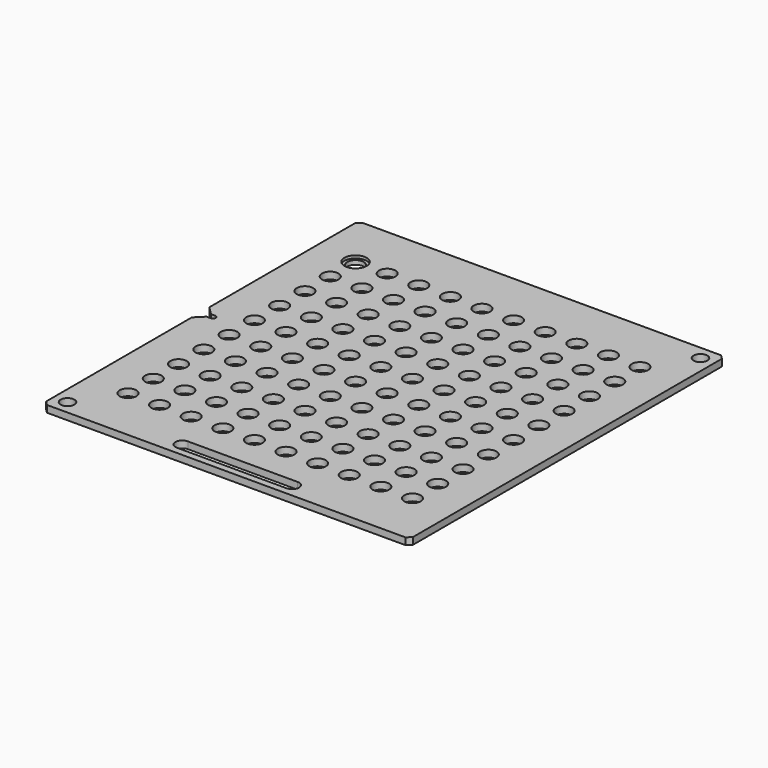
from build123d import *

# Parameters (mm, degrees)
F0_R     = 5
F0_R_2   = 6
F0_R_3   = 8.1
F1_DEPTH = 5
F2_DEPTH = 3


with BuildPart() as f1:
    # F0 (on Top) → F1 (new body)
    with BuildSketch(Plane.XY):
        with BuildLine():
            Line((133.5, 140.5), (130.5, 143.5))
            Line((130.5, 143.5), (-130.5, 143.5))
            Line((-130.5, 143.5), (-133.5, 140.5))
            Line((-133.5, 140.5), (-133.5, 8))
            Line((-133.5, 8), (-127.5, 2))
            Line((-127.5, 2), (-124.5, 2))
            ThreePointArc((-124.5, 2), (-122.5, 0), (-124.5, -2))
            Line((-124.5, -2), (-127.5, -2))
            Line((-127.5, -2), (-133.5, -8))
            Line((-133.5, -8), (-133.5, -140.5))
            Line((-133.5, -140.5), (-130.5, -143.5))
            Line((-130.5, -143.5), (130.5, -143.5))
            Line((130.5, -143.5), (133.5, -140.5))
            Line((133.5, -140.5), (133.5, 140.5))
        make_face()
        with Locations((-123.5, -133.5)):
            Circle(F0_R, mode=Mode.SUBTRACT)
        with Locations((-103.5, -103.5)):
            Circle(F0_R_2, mode=Mode.SUBTRACT)
        with Locations((-103.5, -80.5)):
            Circle(F0_R_2, mode=Mode.SUBTRACT)
        with Locations((-80.5, -103.5)):
            Circle(F0_R_2, mode=Mode.SUBTRACT)
        with Locations((-80.5, -80.5)):
            Circle(F0_R_2, mode=Mode.SUBTRACT)
        with Locations((-57.5, -103.5)):
            Circle(F0_R_2, mode=Mode.SUBTRACT)
        with Locations((-34.5, -103.5)):
            Circle(F0_R_2, mode=Mode.SUBTRACT)
        with Locations((-57.5, -80.5)):
            Circle(F0_R_2, mode=Mode.SUBTRACT)
        with Locations((-34.5, -80.5)):
            Circle(F0_R_2, mode=Mode.SUBTRACT)
        with Locations((-11.5, -103.5)):
            Circle(F0_R_2, mode=Mode.SUBTRACT)
        with Locations((-11.5, -80.5)):
            Circle(F0_R_2, mode=Mode.SUBTRACT)
        with Locations((-103.5, -57.5)):
            Circle(F0_R_2, mode=Mode.SUBTRACT)
        with Locations((-80.5, -57.5)):
            Circle(F0_R_2, mode=Mode.SUBTRACT)
        with Locations((-103.5, -34.5)):
            Circle(F0_R_2, mode=Mode.SUBTRACT)
        with Locations((-103.5, -11.5)):
            Circle(F0_R_2, mode=Mode.SUBTRACT)
        with Locations((-80.5, -34.5)):
            Circle(F0_R_2, mode=Mode.SUBTRACT)
        with Locations((-80.5, -11.5)):
            Circle(F0_R_2, mode=Mode.SUBTRACT)
        with Locations((-57.5, -57.5)):
            Circle(F0_R_2, mode=Mode.SUBTRACT)
        with Locations((-34.5, -57.5)):
            Circle(F0_R_2, mode=Mode.SUBTRACT)
        with Locations((-11.5, -57.5)):
            Circle(F0_R_2, mode=Mode.SUBTRACT)
        with Locations((-57.5, -34.5)):
            Circle(F0_R_2, mode=Mode.SUBTRACT)
        with Locations((-34.5, -34.5)):
            Circle(F0_R_2, mode=Mode.SUBTRACT)
        with Locations((-57.5, -11.5)):
            Circle(F0_R_2, mode=Mode.SUBTRACT)
        with Locations((-34.5, -11.5)):
            Circle(F0_R_2, mode=Mode.SUBTRACT)
        with Locations((-11.5, -34.5)):
            Circle(F0_R_2, mode=Mode.SUBTRACT)
        with Locations((-11.5, -11.5)):
            Circle(F0_R_2, mode=Mode.SUBTRACT)
        with BuildLine():
            Line((40, -138.5), (-40, -138.5))
            ThreePointArc((-40, -138.5), (-45, -133.5), (-40, -128.5))
            Line((-40, -128.5), (40, -128.5))
            ThreePointArc((40, -128.5), (45, -133.5), (40, -138.5))
        make_face(mode=Mode.SUBTRACT)
        with Locations((11.5, -103.5)):
            Circle(F0_R_2, mode=Mode.SUBTRACT)
        with Locations((11.5, -80.5)):
            Circle(F0_R_2, mode=Mode.SUBTRACT)
        with Locations((34.5, -103.5)):
            Circle(F0_R_2, mode=Mode.SUBTRACT)
        with Locations((57.5, -103.5)):
            Circle(F0_R_2, mode=Mode.SUBTRACT)
        with Locations((34.5, -80.5)):
            Circle(F0_R_2, mode=Mode.SUBTRACT)
        with Locations((57.5, -80.5)):
            Circle(F0_R_2, mode=Mode.SUBTRACT)
        with Locations((80.5, -103.5)):
            Circle(F0_R_2, mode=Mode.SUBTRACT)
        with Locations((80.5, -80.5)):
            Circle(F0_R_2, mode=Mode.SUBTRACT)
        with Locations((103.5, -103.5)):
            Circle(F0_R_2, mode=Mode.SUBTRACT)
        with Locations((103.5, -80.5)):
            Circle(F0_R_2, mode=Mode.SUBTRACT)
        with Locations((11.5, -57.5)):
            Circle(F0_R_2, mode=Mode.SUBTRACT)
        with Locations((34.5, -57.5)):
            Circle(F0_R_2, mode=Mode.SUBTRACT)
        with Locations((57.5, -57.5)):
            Circle(F0_R_2, mode=Mode.SUBTRACT)
        with Locations((11.5, -34.5)):
            Circle(F0_R_2, mode=Mode.SUBTRACT)
        with Locations((11.5, -11.5)):
            Circle(F0_R_2, mode=Mode.SUBTRACT)
        with Locations((34.5, -34.5)):
            Circle(F0_R_2, mode=Mode.SUBTRACT)
        with Locations((57.5, -34.5)):
            Circle(F0_R_2, mode=Mode.SUBTRACT)
        with Locations((34.5, -11.5)):
            Circle(F0_R_2, mode=Mode.SUBTRACT)
        with Locations((57.5, -11.5)):
            Circle(F0_R_2, mode=Mode.SUBTRACT)
        with Locations((80.5, -57.5)):
            Circle(F0_R_2, mode=Mode.SUBTRACT)
        with Locations((103.5, -57.5)):
            Circle(F0_R_2, mode=Mode.SUBTRACT)
        with Locations((80.5, -34.5)):
            Circle(F0_R_2, mode=Mode.SUBTRACT)
        with Locations((80.5, -11.5)):
            Circle(F0_R_2, mode=Mode.SUBTRACT)
        with Locations((103.5, -34.5)):
            Circle(F0_R_2, mode=Mode.SUBTRACT)
        with Locations((103.5, -11.5)):
            Circle(F0_R_2, mode=Mode.SUBTRACT)
        with Locations((-103.5, 11.5)):
            Circle(F0_R_2, mode=Mode.SUBTRACT)
        with Locations((-103.5, 34.5)):
            Circle(F0_R_2, mode=Mode.SUBTRACT)
        with Locations((-80.5, 11.5)):
            Circle(F0_R_2, mode=Mode.SUBTRACT)
        with Locations((-80.5, 34.5)):
            Circle(F0_R_2, mode=Mode.SUBTRACT)
        with Locations((-103.5, 57.5)):
            Circle(F0_R_2, mode=Mode.SUBTRACT)
        with Locations((-80.5, 57.5)):
            Circle(F0_R_2, mode=Mode.SUBTRACT)
        with Locations((-57.5, 11.5)):
            Circle(F0_R_2, mode=Mode.SUBTRACT)
        with Locations((-34.5, 11.5)):
            Circle(F0_R_2, mode=Mode.SUBTRACT)
        with Locations((-57.5, 34.5)):
            Circle(F0_R_2, mode=Mode.SUBTRACT)
        with Locations((-34.5, 34.5)):
            Circle(F0_R_2, mode=Mode.SUBTRACT)
        with Locations((-11.5, 11.5)):
            Circle(F0_R_2, mode=Mode.SUBTRACT)
        with Locations((-11.5, 34.5)):
            Circle(F0_R_2, mode=Mode.SUBTRACT)
        with Locations((-57.5, 57.5)):
            Circle(F0_R_2, mode=Mode.SUBTRACT)
        with Locations((-34.5, 57.5)):
            Circle(F0_R_2, mode=Mode.SUBTRACT)
        with Locations((-11.5, 57.5)):
            Circle(F0_R_2, mode=Mode.SUBTRACT)
        with Locations((-103.5, 80.5)):
            Circle(F0_R_2, mode=Mode.SUBTRACT)
        with Locations((-103.5, 103.5)):
            Circle(F0_R_3, mode=Mode.SUBTRACT)
        with Locations((-80.5, 80.5)):
            Circle(F0_R_2, mode=Mode.SUBTRACT)
        with Locations((-80.5, 103.5)):
            Circle(F0_R_2, mode=Mode.SUBTRACT)
        with Locations((-57.5, 80.5)):
            Circle(F0_R_2, mode=Mode.SUBTRACT)
        with Locations((-34.5, 80.5)):
            Circle(F0_R_2, mode=Mode.SUBTRACT)
        with Locations((-57.5, 103.5)):
            Circle(F0_R_2, mode=Mode.SUBTRACT)
        with Locations((-34.5, 103.5)):
            Circle(F0_R_2, mode=Mode.SUBTRACT)
        with Locations((-11.5, 80.5)):
            Circle(F0_R_2, mode=Mode.SUBTRACT)
        with Locations((-11.5, 103.5)):
            Circle(F0_R_2, mode=Mode.SUBTRACT)
        with Locations((11.5, 11.5)):
            Circle(F0_R_2, mode=Mode.SUBTRACT)
        with Locations((11.5, 34.5)):
            Circle(F0_R_2, mode=Mode.SUBTRACT)
        with Locations((34.5, 11.5)):
            Circle(F0_R_2, mode=Mode.SUBTRACT)
        with Locations((57.5, 11.5)):
            Circle(F0_R_2, mode=Mode.SUBTRACT)
        with Locations((34.5, 34.5)):
            Circle(F0_R_2, mode=Mode.SUBTRACT)
        with Locations((57.5, 34.5)):
            Circle(F0_R_2, mode=Mode.SUBTRACT)
        with Locations((11.5, 57.5)):
            Circle(F0_R_2, mode=Mode.SUBTRACT)
        with Locations((34.5, 57.5)):
            Circle(F0_R_2, mode=Mode.SUBTRACT)
        with Locations((57.5, 57.5)):
            Circle(F0_R_2, mode=Mode.SUBTRACT)
        with Locations((80.5, 11.5)):
            Circle(F0_R_2, mode=Mode.SUBTRACT)
        with Locations((80.5, 34.5)):
            Circle(F0_R_2, mode=Mode.SUBTRACT)
        with Locations((103.5, 11.5)):
            Circle(F0_R_2, mode=Mode.SUBTRACT)
        with Locations((103.5, 34.5)):
            Circle(F0_R_2, mode=Mode.SUBTRACT)
        with Locations((80.5, 57.5)):
            Circle(F0_R_2, mode=Mode.SUBTRACT)
        with Locations((103.5, 57.5)):
            Circle(F0_R_2, mode=Mode.SUBTRACT)
        with Locations((11.5, 80.5)):
            Circle(F0_R_2, mode=Mode.SUBTRACT)
        with Locations((11.5, 103.5)):
            Circle(F0_R_2, mode=Mode.SUBTRACT)
        with Locations((34.5, 80.5)):
            Circle(F0_R_2, mode=Mode.SUBTRACT)
        with Locations((57.5, 80.5)):
            Circle(F0_R_2, mode=Mode.SUBTRACT)
        with Locations((34.5, 103.5)):
            Circle(F0_R_2, mode=Mode.SUBTRACT)
        with Locations((57.5, 103.5)):
            Circle(F0_R_2, mode=Mode.SUBTRACT)
        with Locations((80.5, 80.5)):
            Circle(F0_R_2, mode=Mode.SUBTRACT)
        with Locations((80.5, 103.5)):
            Circle(F0_R_2, mode=Mode.SUBTRACT)
        with Locations((103.5, 80.5)):
            Circle(F0_R_2, mode=Mode.SUBTRACT)
        with Locations((103.5, 103.5)):
            Circle(F0_R_2, mode=Mode.SUBTRACT)
        with Locations((123.5, 133.5)):
            Circle(F0_R, mode=Mode.SUBTRACT)
    extrude(amount=F1_DEPTH)

    # F0 (on Top) → F2 (join)
    with BuildSketch(Plane.XY):
        with Locations((-103.5, 103.5)):
            Circle(F0_R_3)
        with Locations((-103.5, 103.5)):
            Circle(F0_R_2, mode=Mode.SUBTRACT)
    extrude(amount=F2_DEPTH)


solid = f1.part
